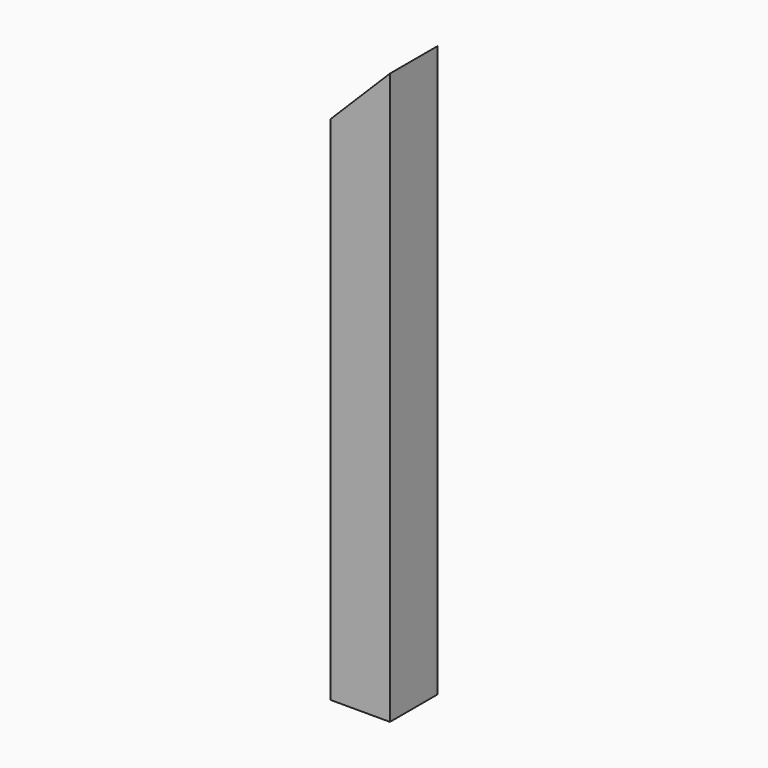
from build123d import *

# Parameters (mm, degrees)
SKETCH_W     = 31.75
SKETCH_H     = 31.75
SKETCH_W_2   = 26.2128
SKETCH_H_2   = 26.2128
PAD_DEPTH    = 304.8
POCKET_DEPTH = 31.75


with BuildPart() as part:
    # Sketch → Pad (new body)
    with BuildSketch(Plane.XY):
        Rectangle(SKETCH_W, SKETCH_H)
        Rectangle(SKETCH_W_2, SKETCH_H_2, mode=Mode.SUBTRACT)
    extrude(amount=PAD_DEPTH)

    # Sketch001 → Pocket (cut)
    with BuildSketch(Plane.XZ.offset(15.875)):
        Polygon((15.875, 304.8), (-15.875, 304.8), (-15.875, 273.05), align=None)
    extrude(amount=-POCKET_DEPTH, mode=Mode.SUBTRACT)


solid = part.part
